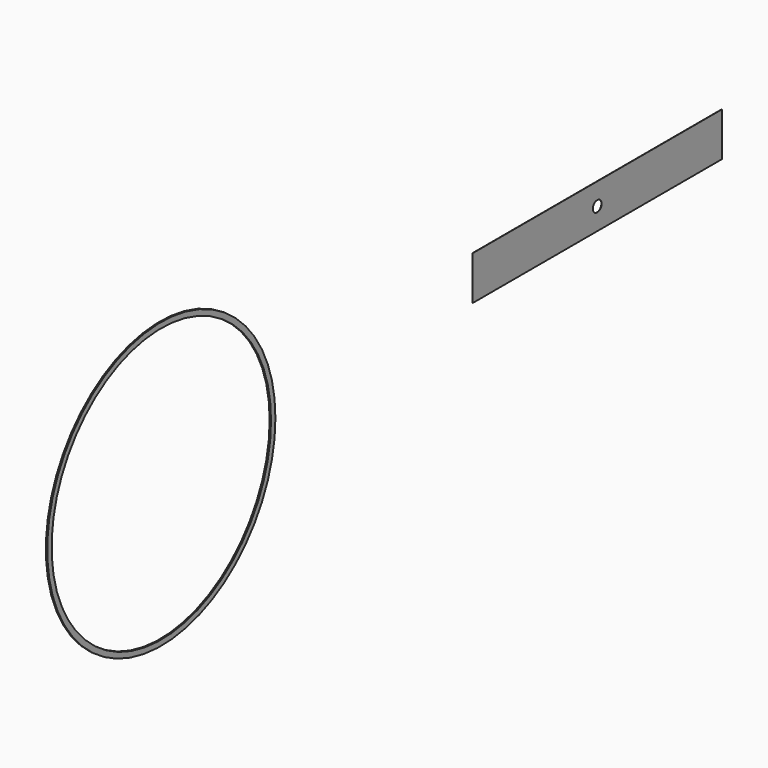
from build123d import *

# Parameters (mm, degrees)
F0_W     = 360.934
F0_H     = 50.8
F0_R     = 6.35
F1_DEPTH = 0.254
F2_R     = 165.1
F2_R_2   = 158.75
F3_DEPTH = 1.5875


with BuildPart() as f1:
    # F0 (on Right) → F1 (new body)
    with BuildSketch(Plane.YZ):
        with Locations((180.467, 25.4)):
            Rectangle(F0_W, F0_H)
        with Locations((180.467, 25.4)):
            Circle(F0_R, mode=Mode.SUBTRACT)
    extrude(amount=F1_DEPTH)


with BuildPart() as f3:
    # F2 (on Right) → F3 (new body)
    with BuildSketch(Plane.YZ):
        with Locations((-451.962993, 0)):
            Circle(F2_R)
        with Locations((-451.962993, 0)):
            Circle(F2_R_2, mode=Mode.SUBTRACT)
    extrude(amount=F3_DEPTH)


solid = Compound([f1.part, f3.part])
